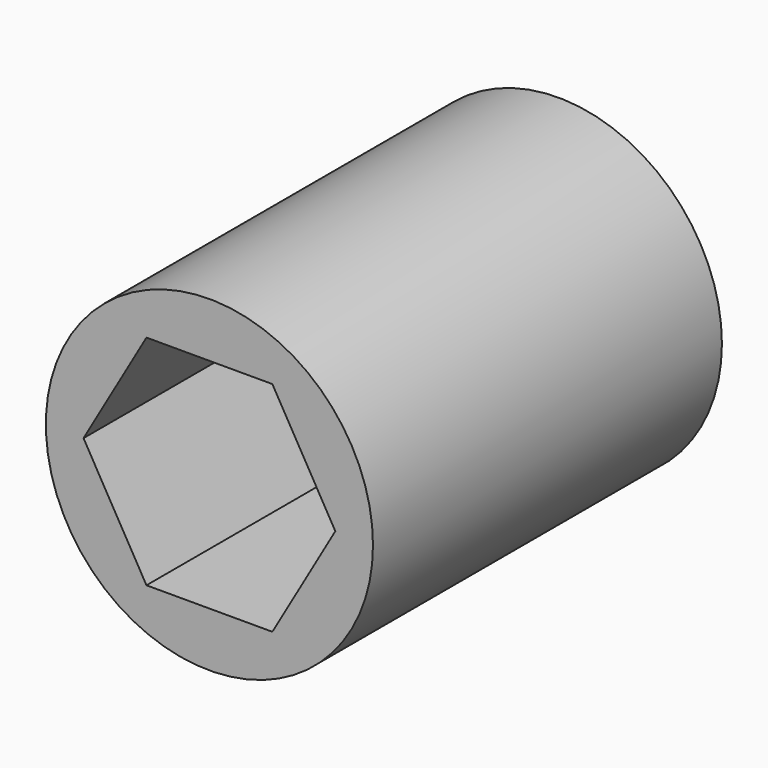
from build123d import *

# Parameters (mm, degrees)
F0_R     = 9.525
F1_DEPTH = 25.4
F3_DEPTH = 25.401
F4_DEPTH = 11.1252
F6_DEPTH = 12.7


with BuildPart() as f1:
    # F0 (on Front) → F1 (new body)
    with BuildSketch(Plane.XZ):
        Circle(F0_R)
    extrude(amount=F1_DEPTH)

    # F2 (on Front) → F3 (cut, through all)
    with BuildSketch(Plane.XZ):
        with BuildLine():
            ThreePointArc((-4.7625, 0), (-3.367596, -3.367596), (0, -4.7625))
            ThreePointArc((0, -4.7625), (3.367596, -3.367596), (4.7625, 0))
            ThreePointArc((4.7625, 0), (3.367596, 3.367596), (0, 4.7625))
            ThreePointArc((0, 4.7625), (-3.367596, 3.367596), (-4.7625, 0))
        make_face()
    extrude(amount=F3_DEPTH, mode=Mode.SUBTRACT)

    # F2 (on Front) → F4 (cut)
    with BuildSketch(Plane.XZ):
        with BuildLine():
            ThreePointArc((0, 4.7625), (3.367596, 3.367596), (4.7625, 0))
            Line((4.7625, 0), (4.7625, 4.7625))
            Line((4.7625, 4.7625), (0, 4.7625))
        make_face()
        with BuildLine():
            Line((-4.7625, 4.7625), (-4.7625, 0))
            ThreePointArc((-4.7625, 0), (-3.367596, 3.367596), (0, 4.7625))
            Line((0, 4.7625), (-4.7625, 4.7625))
        make_face()
        with BuildLine():
            Line((-4.7625, -4.7625), (0, -4.7625))
            ThreePointArc((0, -4.7625), (-3.367596, -3.367596), (-4.7625, 0))
            Line((-4.7625, 0), (-4.7625, -4.7625))
        make_face()
        with BuildLine():
            Line((0, -4.7625), (4.7625, -4.7625))
            Line((4.7625, -4.7625), (4.7625, 0))
            ThreePointArc((4.7625, 0), (3.367596, -3.367596), (0, -4.7625))
        make_face()
    extrude(amount=F4_DEPTH, mode=Mode.SUBTRACT)

    # F5 (on face) → F6 (cut)
    with BuildSketch(Plane.XZ.offset(25.4)):
        Polygon((3.666174, -6.35), (7.332348, 0), (3.666174, 6.35), (-3.666174, 6.35), (-7.332348, 0), (-3.666174, -6.35), align=None)
    extrude(amount=-F6_DEPTH, mode=Mode.SUBTRACT)


solid = f1.part
